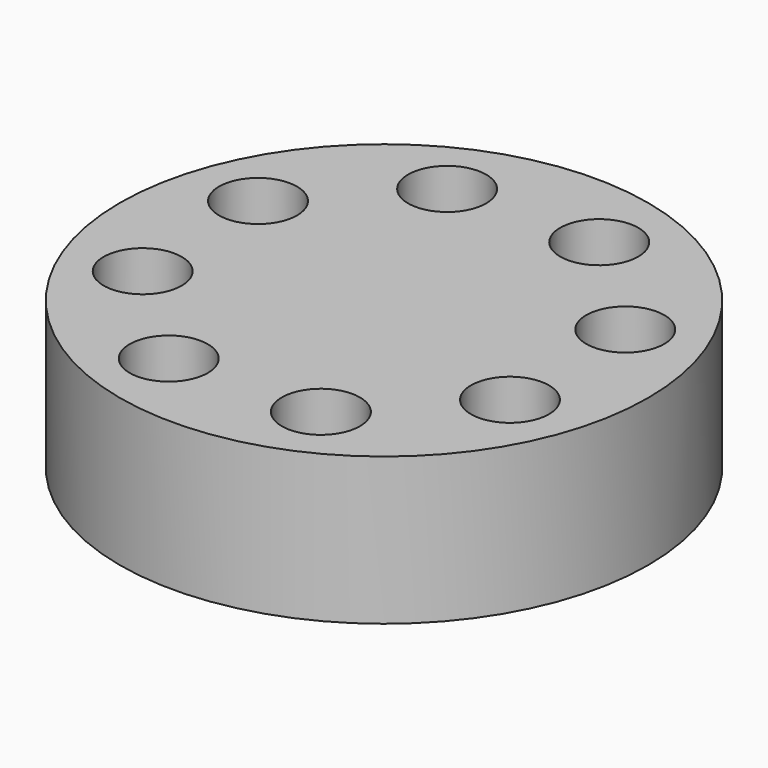
from build123d import *

# Parameters (mm, degrees)
F0_R        = 62.874462
F0_R_2      = 9.295278
F1_DEPTH    = 9.652
F1_FACE_R   = 62.874462
F1_FACE_R_2 = 9.295278
F2_DEPTH    = 25.4


with BuildPart() as f1:
    # F0 (on Top) → F1 (new body)
    with BuildSketch(Plane.XY):
        Circle(F0_R)
        with Locations((-16.614098, -43.2841)):
            Circle(F0_R_2, mode=Mode.SUBTRACT)
        with Locations((-42.354422, -18.858539)):
            Circle(F0_R_2, mode=Mode.SUBTRACT)
        with Locations((18.858539, -42.354422)):
            Circle(F0_R_2, mode=Mode.SUBTRACT)
        with Locations((43.2841, -16.614098)):
            Circle(F0_R_2, mode=Mode.SUBTRACT)
        with Locations((-43.2841, 16.614098)):
            Circle(F0_R_2, mode=Mode.SUBTRACT)
        with Locations((-18.858539, 42.354422)):
            Circle(F0_R_2, mode=Mode.SUBTRACT)
        with Locations((42.354422, 18.858539)):
            Circle(F0_R_2, mode=Mode.SUBTRACT)
        with Locations((16.614098, 43.2841)):
            Circle(F0_R_2, mode=Mode.SUBTRACT)
    extrude(amount=F1_DEPTH)

    # F1_face (on face) → F2 (join)
    with BuildSketch(Plane.XY.offset(9.652)):
        Circle(F1_FACE_R)
        with Locations((-16.614098, -43.2841)):
            Circle(F1_FACE_R_2, mode=Mode.SUBTRACT)
        with Locations((-42.354422, -18.858539)):
            Circle(F1_FACE_R_2, mode=Mode.SUBTRACT)
        with Locations((18.858539, -42.354422)):
            Circle(F1_FACE_R_2, mode=Mode.SUBTRACT)
        with Locations((43.2841, -16.614098)):
            Circle(F1_FACE_R_2, mode=Mode.SUBTRACT)
        with Locations((-43.2841, 16.614098)):
            Circle(F1_FACE_R_2, mode=Mode.SUBTRACT)
        with Locations((-18.858539, 42.354422)):
            Circle(F1_FACE_R_2, mode=Mode.SUBTRACT)
        with Locations((42.354422, 18.858539)):
            Circle(F1_FACE_R_2, mode=Mode.SUBTRACT)
        with Locations((16.614098, 43.2841)):
            Circle(F1_FACE_R_2, mode=Mode.SUBTRACT)
    extrude(amount=F2_DEPTH)


solid = f1.part
